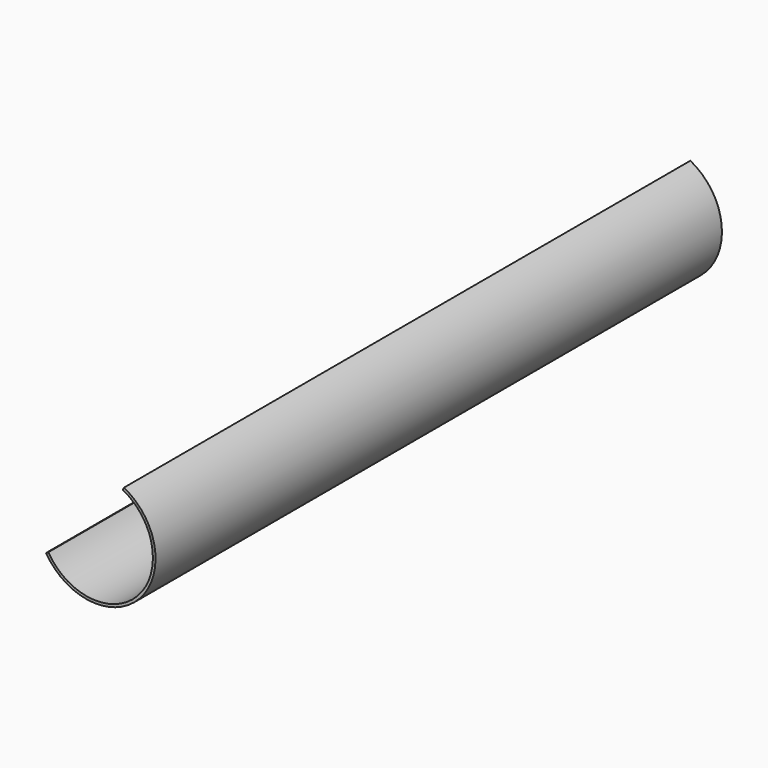
from build123d import *

# Parameters (mm, degrees)
F0_R     = 57.15
F0_R_2   = 54.61
F1_DEPTH = 685.8
F3_DEPTH = 685.8


with BuildPart() as f1:
    # F0 (on Front) → F1 (new body)
    with BuildSketch(Plane.XZ):
        Circle(F0_R)
        Circle(F0_R_2, mode=Mode.SUBTRACT)
    extrude(amount=-F1_DEPTH)

    # F2 (on face) → F3 (cut)
    with BuildSketch(Plane.XZ):
        with BuildLine():
            ThreePointArc((-46.7011360752, -28.3064655032), (-39.7893330194, 37.4040248886), (25.3690435681, 48.35973251))
            Line((25.3690435682, 48.35973251), (26.5489990829, 50.6090223942))
            ThreePointArc((26.5489990829, 50.6090223942), (-41.6399996715, 39.1437469765), (-48.8732819392, -29.623045294))
            Line((-48.8732819392, -29.623045294), (-46.7011360752, -28.3064655032))
        make_face()
    extrude(amount=-F3_DEPTH, mode=Mode.SUBTRACT)


solid = f1.part
